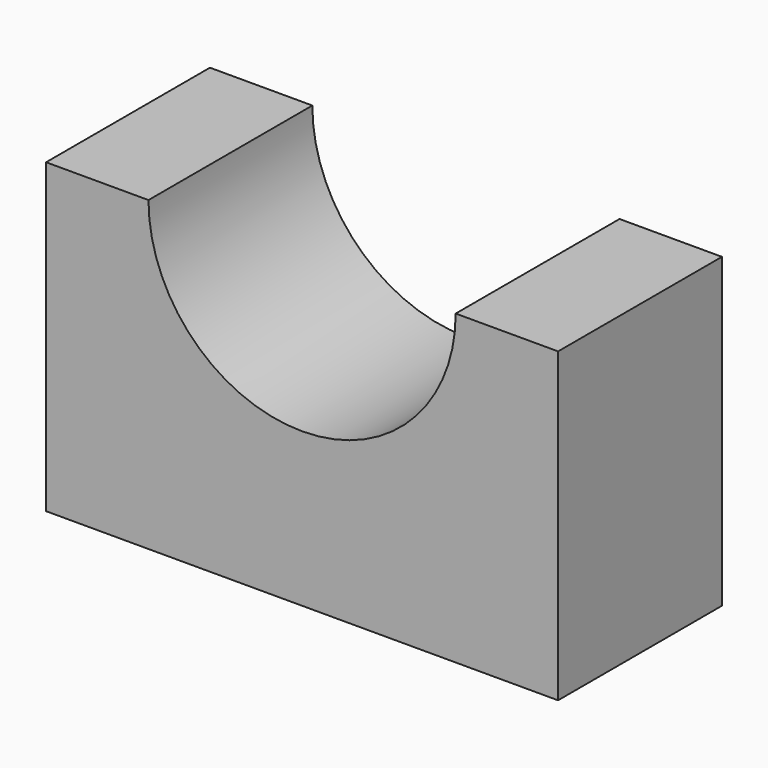
from build123d import *

# Parameters (mm, degrees)
F0_W     = 63.5
F0_H     = 38.1
F1_DEPTH = 25.4
F3_DEPTH = 25.4


with BuildPart() as f1:
    # F0 (on Front) → F1 (new body)
    with BuildSketch(Plane.XZ):
        with Locations((31.75, 19.05)):
            Rectangle(F0_W, F0_H)
    extrude(amount=F1_DEPTH)

    # F2 (on face) → F3 (cut)
    with BuildSketch(Plane.XZ.offset(25.4)):
        with BuildLine():
            ThreePointArc((12.7, 38.1), (31.75, 19.05), (50.8, 38.1))
            Line((50.8, 38.1), (12.7, 38.1))
        make_face()
        with BuildLine():
            Line((12.7, 38.1), (50.8, 38.1))
            ThreePointArc((50.8, 38.1), (31.75, 57.15), (12.7, 38.1))
        make_face()
    extrude(amount=-F3_DEPTH, mode=Mode.SUBTRACT)


solid = f1.part
